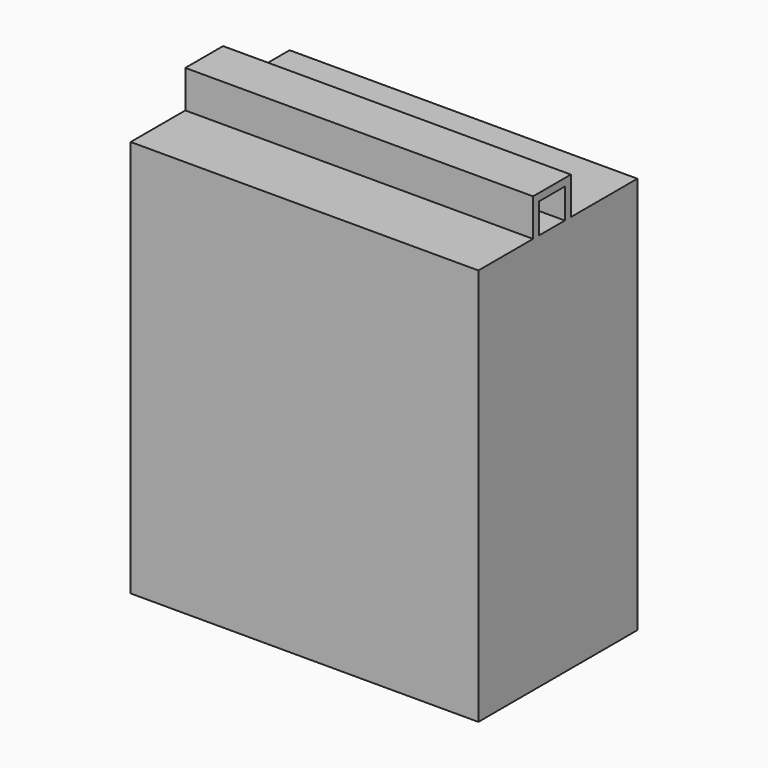
from build123d import *

# Parameters (mm, degrees)
F0_W     = 1016
F0_H     = 2032
F1_DEPTH = 1778
F3_DEPTH = 1778


with BuildPart() as f1:
    # F0 (on Right) → F1 (new body)
    with BuildSketch(Plane.YZ):
        with Locations((6.904417, 70.391247)):
            Rectangle(F0_W, F0_H)
    extrude(amount=F1_DEPTH)

    # F2 (on face) → F3 (join)
    with BuildSketch(Plane.YZ.offset(1778)):
        Polygon((-151.704185, 1086.391247), (-113.604181, 1086.391247), (-113.604181, 1239.771128), (51.537298, 1239.771128), (51.537298, 1086.391247), (89.637302, 1086.391247), (89.637302, 1277.871132), (-151.704185, 1277.871132), align=None)
    extrude(amount=-F3_DEPTH)


solid = f1.part
